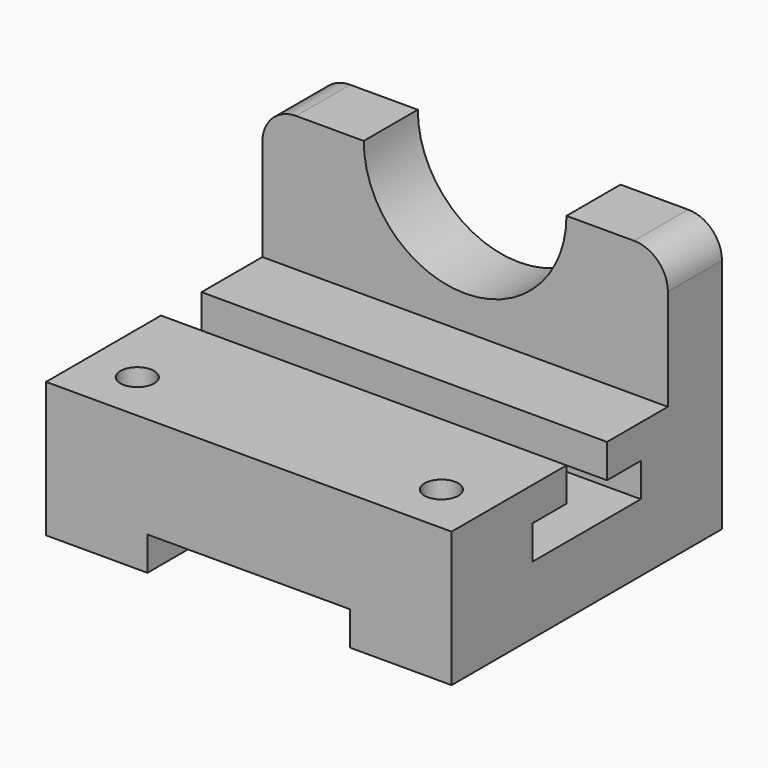
from build123d import *

# Parameters (mm, degrees)
F0_W      = 152.4
F0_H      = 50.8
F1_DEPTH  = 63.5
F2_W      = 76.2
F2_H      = 12.7
F3_DEPTH  = 127.001
F5_DEPTH  = 152.4
F6_W      = 25.4
F6_H      = 50.8
F7_DEPTH  = 152.4
F9_DEPTH  = 25.4
F10_R     = 12.7
F11_R     = 12.7
F12_R     = 6.35
F13_DEPTH = 50.8


with BuildPart() as f1:
    # F0 (on Front) → F1 (new body, symmetric)
    with BuildSketch(Plane.XZ):
        with Locations((-0.097813, 25.4)):
            Rectangle(F0_W, F0_H)
    extrude(amount=F1_DEPTH, both=True)

    # F2 (on face) → F3 (cut, through all)
    with BuildSketch(Plane.XZ.offset(63.5)):
        with Locations((-0.097813, 6.35)):
            Rectangle(F2_W, F2_H)
    extrude(amount=-F3_DEPTH, mode=Mode.SUBTRACT)

    # F4 (on face) → F5 (cut, through all)
    with BuildSketch(Plane.YZ.offset(76.102187)):
        Polygon((-25.4, 38.1), (-25.4, 25.4), (25.4, 25.4), (25.4, 38.1), (9.525, 38.1), (9.525, 50.8), (-9.525, 50.8), (-9.525, 38.1), align=None)
    extrude(amount=-F5_DEPTH, mode=Mode.SUBTRACT)

    # F6 (on face) → F7 (join, through all)
    with BuildSketch(Plane.YZ.offset(76.102187)):
        with Locations((50.8, 76.2)):
            Rectangle(F6_W, F6_H)
    extrude(amount=-F7_DEPTH)

    # F8 (on face) → F9 (cut, through all)
    with BuildSketch(Plane.XZ.offset(-38.1)):
        with BuildLine():
            Line((38.002187, 101.6), (-38.197813, 101.6))
            ThreePointArc((-38.197813, 101.6), (-0.097813, 63.5), (38.002187, 101.6))
        make_face()
        with BuildLine():
            Line((38.002187, 101.6), (-38.197813, 101.6))
            ThreePointArc((-38.197813, 101.6), (-0.097813, 63.5), (38.002187, 101.6))
        make_face()
    extrude(amount=-F9_DEPTH, mode=Mode.SUBTRACT)

    # F10
    f10_edges = [f1.edges().sort_by_distance(p)[0] for p in [
        (-76.297813, 50.8, 101.6),
    ]]
    fillet(f10_edges, radius=F10_R)

    # F11
    f11_edges = [f1.edges().sort_by_distance(p)[0] for p in [
        (76.102187, 50.8, 101.6),
    ]]
    fillet(f11_edges, radius=F11_R)

    # F12 (on face) → F13 (cut, through all)
    with BuildSketch(Plane.XY.offset(50.8)):
        with Locations((-57.247813, -44.45)):
            Circle(F12_R)
        with Locations((57.052187, -44.45)):
            Circle(F12_R)
        with Locations((-57.247813, -44.45)):
            Circle(F12_R)
    extrude(amount=-F13_DEPTH, mode=Mode.SUBTRACT)


solid = f1.part
